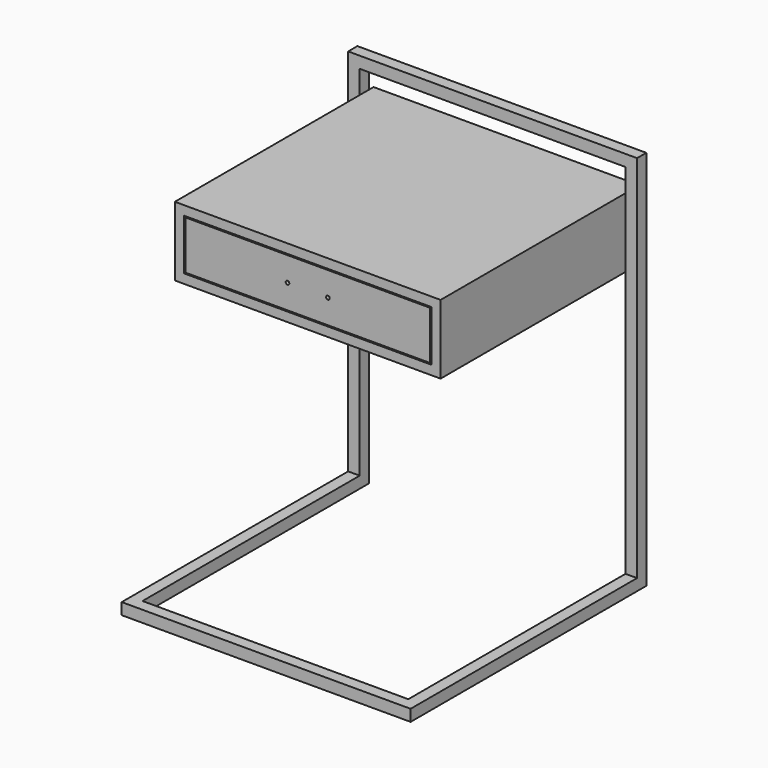
from build123d import *

# Parameters (mm, degrees)
F0_W      = 46
F0_H      = 12
F0_W_2    = 42.8
F0_H_2    = 8.8
F1_DEPTH  = 43
F3_W      = 42.4
F3_H      = 8.4
F3_R      = 0.3125671549
F4_DEPTH  = 2
F8_DEPTH  = 2
F10_DEPTH = 2
F11_W     = 50.011
F11_H     = 2
F12_DEPTH = 2
F13_W     = 50.011
F13_H     = 2
F14_DEPTH = 2


with BuildPart() as f1:
    # F0 (on Front) → F1 (new body)
    with BuildSketch(Plane.XZ):
        with Locations((-118.9983392358, 26.6459157018)):
            Rectangle(F0_W, F0_H)
        with Locations((-118.9983392358, 26.6459157018)):
            Rectangle(F0_W_2, F0_H_2, mode=Mode.SUBTRACT)
    extrude(amount=F1_DEPTH)


with BuildPart() as f4:
    # F3 (on face) → F4 (new body)
    with BuildSketch(Plane.XZ.offset(43)):
        with Locations((-118.9983392358, 26.6459157018)):
            Rectangle(F3_W, F3_H)
        with Locations((-122.4983392358, 26.6459157018)):
            Circle(F3_R, mode=Mode.SUBTRACT)
        with Locations((-115.4983392358, 26.6459157018)):
            Circle(F3_R, mode=Mode.SUBTRACT)
    extrude(amount=-F4_DEPTH)


with BuildPart() as f8:
    # F7 (on offset) → F8 (new body)
    with BuildSketch(Plane.YZ.offset(-95.9883392358)):
        Polygon((-1, -27.3540842982), (-1, 38.6459157018), (-3, 38.6459157018), (-3, -25.3540842982), (-50, -25.3540842982), (-50, -27.3540842982), align=None)
    extrude(amount=F8_DEPTH)



with BuildPart() as f10:
    # F9 (on offset) → F10 (new body)
    with BuildSketch(Plane(origin=(-141.9993392358, 0, 0), x_dir=(0, -1, 0), z_dir=(-1, 0, 0))):
        Polygon((3, 38.6459157018), (1, 38.6459157018), (1, -27.3540842982), (50, -27.3540842982), (50, -25.3540842982), (3, -25.3540842982), align=None)
    extrude(amount=F10_DEPTH)


with BuildPart() as f8_1:
    add(f8.part)

    add(f10.part)  # F12 merges F10
    # F11 (on face) → F12 (join)
    with BuildSketch(Plane(origin=(0, -1, 0), x_dir=(-1, 0, 0), z_dir=(0, 1, 0))):
        with Locations((118.9938392358, 37.6459157018)):
            Rectangle(F11_W, F11_H)
    extrude(amount=-F12_DEPTH)

    # F13 (on face) → F14 (join)
    with BuildSketch(Plane.XZ.offset(50)):
        with Locations((-118.9938392358, -26.3540842982)):
            Rectangle(F13_W, F13_H)
    extrude(amount=F14_DEPTH)


solid = Compound([f1.part, f4.part, f8_1.part])
